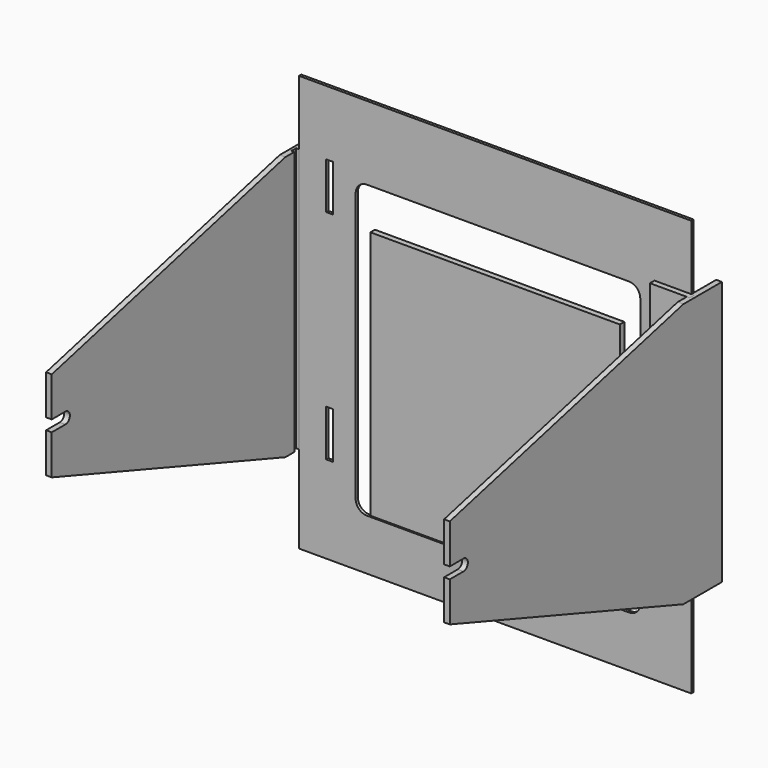
from build123d import *

# Parameters (mm, degrees)
F0_W      = 346
F0_H      = 367
F0_W_2    = 6
F0_H_2    = 41
F1_DEPTH  = 2.5
F0_W_3    = 220
F0_H_3    = 220
F2_DEPTH  = 5
F4_DEPTH  = 5
F5_W      = 2.5
F5_H      = 5
F6_DEPTH  = 290.001
F6_FACE_W = 5
F6_FACE_H = 233
F8_DEPTH  = 35


with BuildPart() as f1:
    # F0 (on Front) → F1 (new body)
    with BuildSketch(Plane.XZ):
        Rectangle(F0_W, F0_H)
        with Locations((-146, -86)):
            Rectangle(F0_W_2, F0_H_2, mode=Mode.SUBTRACT)
        with BuildLine():
            ThreePointArc((128, -128.5), (125.071068, -135.571068), (118, -138.5))
            Line((118, -138.5), (-113, -138.5))
            ThreePointArc((-113, -138.5), (-120.071068, -135.571068), (-123, -128.5))
            Line((-123, -128.5), (-123, 108.5))
            ThreePointArc((-123, 108.5), (-120.071068, 115.571068), (-113, 118.5))
            Line((-113, 118.5), (118, 118.5))
            ThreePointArc((118, 118.5), (125.071068, 115.571068), (128, 108.5))
            Line((128, 108.5), (128, -128.5))
        make_face(mode=Mode.SUBTRACT)
        with Locations((154, -86)):
            Rectangle(F0_W_2, F0_H_2, mode=Mode.SUBTRACT)
        with Locations((-146, 106)):
            Rectangle(F0_W_2, F0_H_2, mode=Mode.SUBTRACT)
        with Locations((154, 106)):
            Rectangle(F0_W_2, F0_H_2, mode=Mode.SUBTRACT)
    extrude(amount=-F1_DEPTH)


with BuildPart() as f2:
    # F0 (on Front) → F2 (new body)
    with BuildSketch(Plane.XZ):
        with Locations((0, -27.5)):
            Rectangle(F0_W_3, F0_H_3)
    extrude(amount=-F2_DEPTH)


with BuildPart() as f4:
    # F3 (on face) → F4 (new body)
    with BuildSketch(Plane.YZ.offset(173)):
        with BuildLine():
            Line((-272.5, -17.49375), (-15, -106.5))
            Line((-15, -106.5), (27.5, -106.5))
            Line((27.5, -106.5), (27.5, 126.5))
            Line((27.5, 126.5), (-15, 126.5))
            Line((-15, 126.5), (-272.5, 62.50625))
            Line((-272.5, 62.50625), (-272.5, 27.50625))
            Line((-272.5, 27.50625), (-257.5, 27.50625))
            ThreePointArc((-257.5, 27.50625), (-252.5, 22.50625), (-257.5, 17.50625))
            Line((-257.5, 17.50625), (-272.5, 17.50625))
            Line((-272.5, 17.50625), (-272.5, -17.49375))
        make_face()
    extrude(amount=F4_DEPTH)

    # F5 (on face) → F6 (cut, through all)
    with BuildSketch(Plane(origin=(0, 0, -106.5), x_dir=(1, 0, 0), z_dir=(0, 0, -1))):
        with Locations((174.25, 2.5)):
            Rectangle(F5_W, F5_H)
    extrude(amount=-F6_DEPTH, mode=Mode.SUBTRACT)


with BuildPart() as f7_1:
    # F7: instance of F4
    add(f4.part.mirror(Plane.YZ))


with BuildPart() as f8:
    # F6_face (on face) → F8 (new body)
    with BuildSketch(Plane(origin=(175.5, -2.5, 10), x_dir=(0, -1, 0), z_dir=(-1, 0, 0))):
        Rectangle(F6_FACE_W, F6_FACE_H)
    extrude(amount=F8_DEPTH)


solid = Compound([f1.part, f2.part, f4.part, f7_1.part, f8.part])
